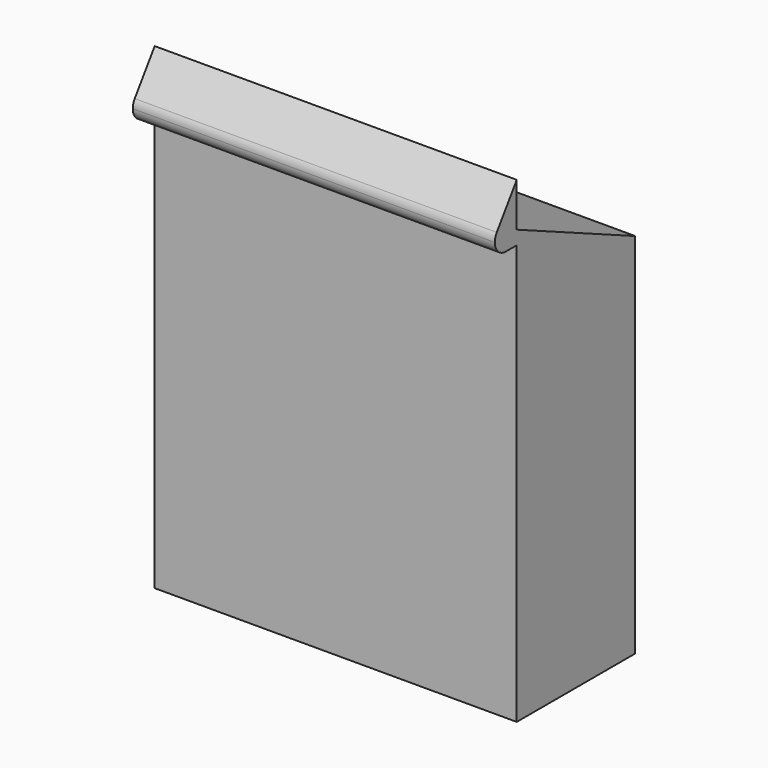
from build123d import *

# Parameters (mm, degrees)
F0_W     = 66
F0_H     = 87
F1_DEPTH = 13.5
F3_DEPTH = 70
F4_DEPTH = 66


with BuildPart() as f1:
    # F0 (on Front) → F1 (new body, symmetric)
    with BuildSketch(Plane.XZ):
        Rectangle(F0_W, F0_H)
    extrude(amount=F1_DEPTH, both=True)

    # F2 (on face) → F3 (cut)
    with BuildSketch(Plane(origin=(-33, 0, 0), x_dir=(0, -1, 0), z_dir=(-1, 0, 0))):
        Polygon((13.5, 35.5), (13.5, 43.5), (-13.5, 43.5), (-13.5, 23.5), align=None)
    extrude(amount=-F3_DEPTH, mode=Mode.SUBTRACT)

    # F2 (on face) → F4 (join)
    with BuildSketch(Plane(origin=(-33, 0, 0), x_dir=(0, -1, 0), z_dir=(-1, 0, 0))):
        with BuildLine():
            ThreePointArc((16, 33), (14.232233047, 33.732233047), (13.5, 35.5))
            Line((13.5, 35.5), (13.5, 33))
            Line((13.5, 33), (16, 33))
        make_face()
        with BuildLine():
            ThreePointArc((18.0551601423, 36.9234875445), (15.2543125172, 37.8861999451), (13.5, 35.5))
            ThreePointArc((13.5, 35.5), (14.232233047, 33.732233047), (16, 33))
            ThreePointArc((16, 33), (17.767766953, 33.732233047), (18.5, 35.5))
            ThreePointArc((18.5, 35.5), (18.3861999451, 36.2456874828), (18.0551601423, 36.9234875445))
        make_face()
        with BuildLine():
            Line((18.0551601423, 36.9234875445), (13.5, 43.5))
            Line((13.5, 43.5), (13.5, 35.5))
            ThreePointArc((13.5, 35.5), (15.2543125172, 37.8861999451), (18.0551601423, 36.9234875445))
        make_face()
    extrude(amount=-F4_DEPTH)


solid = f1.part
